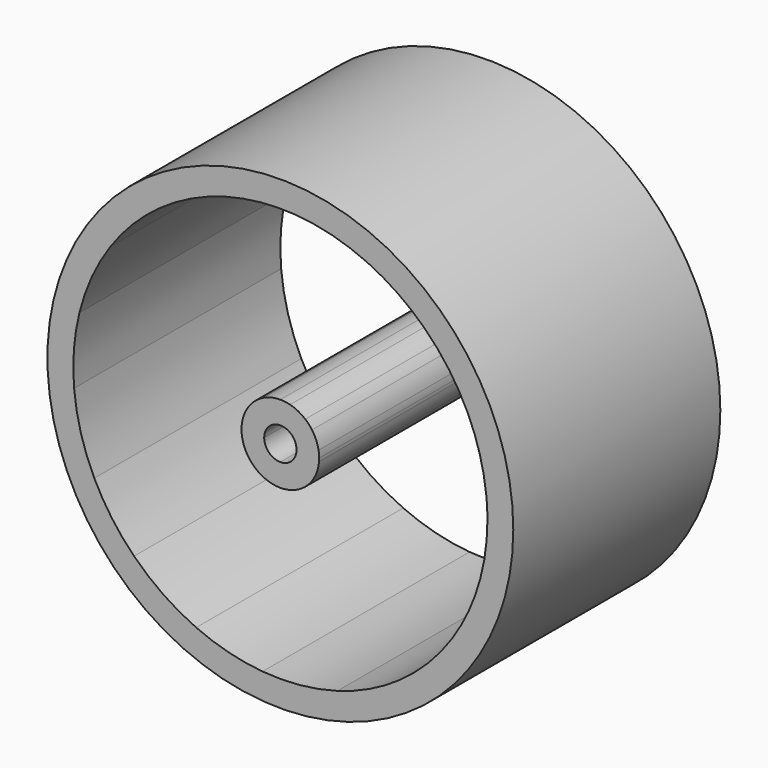
from build123d import *

# Parameters (mm, degrees)
F0_R     = 22.86
F1_DEPTH = 25.4


with BuildPart() as f1:
    # F0 (on Front) → F1 (new body)
    with BuildSketch(Plane.XZ):
        Circle(F0_R)
        with BuildLine():
            ThreePointArc((-11.948898, 16.435518), (-8.759157, 18.3352), (-5.277023, 19.622829))
            ThreePointArc((-5.277023, 19.622829), (-1.959907, 20.225261), (1.411161, 20.27094))
            ThreePointArc((1.411161, 20.27094), (5.075736, 19.675856), (8.570877, 18.423964))
            ThreePointArc((8.570877, 18.423964), (11.499171, 16.753252), (14.110921, 14.621365))
            ThreePointArc((14.110921, 14.621365), (16.535636, 11.80996), (18.408369, 8.604322))
            ThreePointArc((18.408369, 8.604322), (19.577659, 5.442211), (20.208025, 2.13029))
            ThreePointArc((20.208025, 2.13029), (20.291987, 1.066615), (20.32, 0))
            ThreePointArc((20.32, 0), (20.147362, -2.643145), (19.63238, -5.241378))
            ThreePointArc((19.63238, -5.241378), (18.495543, -8.415301), (16.849569, -11.357571))
            ThreePointArc((16.849569, -11.357571), (14.501923, -14.233644), (11.670183, -16.634579))
            ThreePointArc((11.670183, -16.634579), (8.759157, -18.3352), (5.607013, -19.531098))
            ThreePointArc((5.607013, -19.531098), (1.959907, -20.225261), (-1.752623, -20.244276))
            ThreePointArc((-1.752623, -20.244276), (-5.075736, -19.675856), (-8.259127, -18.565808))
            ThreePointArc((-8.259127, -18.565808), (-11.499171, -16.753252), (-14.355357, -14.381451))
            ThreePointArc((-14.355357, -14.381451), (-16.535636, -11.80996), (-18.26073, -8.913369))
            ThreePointArc((-18.26073, -8.913369), (-19.577659, -5.442211), (-20.24106, -1.789385))
            ThreePointArc((-20.24106, -1.789385), (-20.258328, 1.581948), (-19.717934, 4.909734))
            ThreePointArc((-19.717934, 4.909734), (-18.495543, 8.415301), (-16.655746, 11.639954))
            ThreePointArc((-16.655746, 11.639954), (-14.501923, 14.233644), (-11.948898, 16.435518))
        make_face(mode=Mode.SUBTRACT)
        with BuildLine():
            ThreePointArc((0, 1.5875), (1.122532, 1.122532), (1.5875, 0))
            Line((1.5875, 0), (3.81, 0))
            ThreePointArc((3.81, 0), (3.795502, 0.332063), (3.752118, 0.6616))
            ThreePointArc((3.752118, 0.6616), (3.51502, 1.469944), (3.106086, 2.206429))
            ThreePointArc((3.106086, 2.206429), (2.800287, 2.583503), (2.449021, 2.918629))
            ThreePointArc((2.449021, 2.918629), (1.747799, 3.385454), (0.961134, 3.686776))
            ThreePointArc((0.961134, 3.686776), (0.484501, 3.779069), (0, 3.81))
            Line((0, 3.81), (0, 1.5875))
        make_face()
        with BuildLine():
            ThreePointArc((-1.5875, 0), (-1.122532, 1.122532), (0, 1.5875))
            Line((0, 1.5875), (0, 3.81))
            ThreePointArc((0, 3.81), (-0.837236, 3.716872), (-1.633543, 3.44204))
            ThreePointArc((-1.633543, 3.44204), (-2.057989, 3.206365), (-2.449021, 2.918629))
            ThreePointArc((-2.449021, 2.918629), (-3.030519, 2.309124), (-3.463867, 1.586735))
            ThreePointArc((-3.463867, 1.586735), (-3.637523, 1.133368), (-3.752118, 0.6616))
            ThreePointArc((-3.752118, 0.6616), (-3.795502, 0.332063), (-3.81, 0))
            Line((-3.81, 0), (-1.5875, 0))
        make_face()
        with BuildLine():
            Line((0, -3.81), (0, -1.5875))
            ThreePointArc((0, -1.5875), (-1.122532, -1.122532), (-1.5875, 0))
            Line((-1.5875, 0), (-3.81, 0))
            ThreePointArc((-3.81, 0), (-3.775698, -0.510103), (-3.673409, -1.011021))
            ThreePointArc((-3.673409, -1.011021), (-3.51502, -1.469944), (-3.299557, -1.905))
            ThreePointArc((-3.299557, -1.905), (-2.800287, -2.583503), (-2.164123, -3.135709))
            ThreePointArc((-2.164123, -3.135709), (-1.747799, -3.385454), (-1.303097, -3.580229))
            ThreePointArc((-1.303097, -3.580229), (-0.6616, -3.752118), (0, -3.81))
        make_face()
        with BuildLine():
            Line((3.81, 0), (1.5875, 0))
            ThreePointArc((1.5875, 0), (1.122532, -1.122532), (0, -1.5875))
            Line((0, -1.5875), (0, -3.81))
            ThreePointArc((0, -3.81), (0.179088, -3.805789), (0.357781, -3.793164))
            ThreePointArc((0.357781, -3.793164), (0.837236, -3.716872), (1.303097, -3.580229))
            ThreePointArc((1.303097, -3.580229), (2.057989, -3.206365), (2.712275, -2.675755))
            ThreePointArc((2.712275, -2.675755), (3.030519, -2.309124), (3.299557, -1.905))
            ThreePointArc((3.299557, -1.905), (3.637523, -1.133368), (3.797665, -0.306331))
            ThreePointArc((3.797665, -0.306331), (3.806915, -0.153289), (3.81, 0))
        make_face()
    extrude(amount=F1_DEPTH)


solid = f1.part
